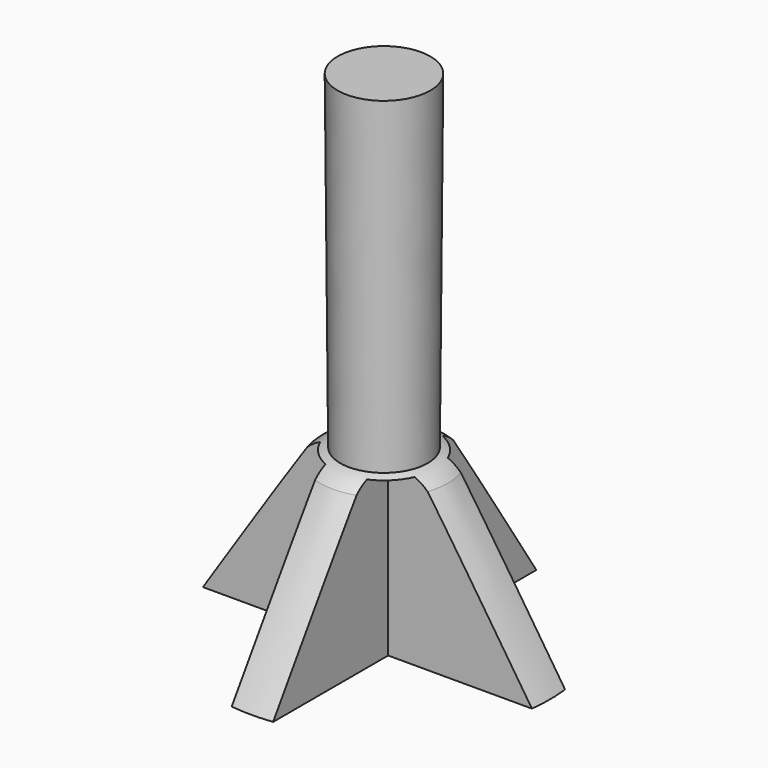
from build123d import *

# Parameters (mm, degrees)
F3_DEPTH = 25.4


with BuildPart() as f1:
    # F0 (on Front) → F1 (revolve)
    with BuildSketch(Plane.XZ):
        with BuildLine():
            Line((0, 25.4), (0, 0))
            Line((0, 0), (25.4, 0))
            Line((25.4, 0), (9.75633, 24.067192))
            ThreePointArc((9.75633, 24.067192), (8.359358, 25.168282), (6.692807, 25.790008))
            Line((6.692807, 25.790008), (7.097861, 76.18158))
            Line((7.097861, 76.18158), (0, 76.18158))
            Line((0, 76.18158), (0, 25.4))
        make_face()
    revolve(axis=Axis((0, 0, 12.7), (0, 0, 1)))

    # F2 (on Top) → F3 (cut)
    with BuildSketch(Plane.XY):
        with BuildLine():
            Line((3.175, -3.175), (3.175, -37.026545))
            ThreePointArc((3.175, -37.026545), (26.277801, -26.277801), (37.026545, -3.175))
            Line((37.026545, -3.175), (3.175, -3.175))
        make_face()
        with BuildLine():
            Line((3.175, 3.175), (37.173723, 3.175))
            ThreePointArc((37.173723, 3.175), (26.381493, 26.381493), (3.175, 37.173723))
            Line((3.175, 37.173723), (3.175, 3.175))
        make_face()
        with BuildLine():
            Line((-3.175, 3.175), (-3.175, 36.787234))
            ThreePointArc((-3.175, 36.787234), (-26.109205, 26.109205), (-36.787234, 3.175))
            Line((-36.787234, 3.175), (-3.175, 3.175))
        make_face()
        with BuildLine():
            Line((-3.175, -3.175), (-37.173723, -3.175))
            ThreePointArc((-37.173723, -3.175), (-26.381493, -26.381493), (-3.175, -37.173723))
            Line((-3.175, -37.173723), (-3.175, -3.175))
        make_face()
    extrude(amount=F3_DEPTH, mode=Mode.SUBTRACT)


solid = f1.part
